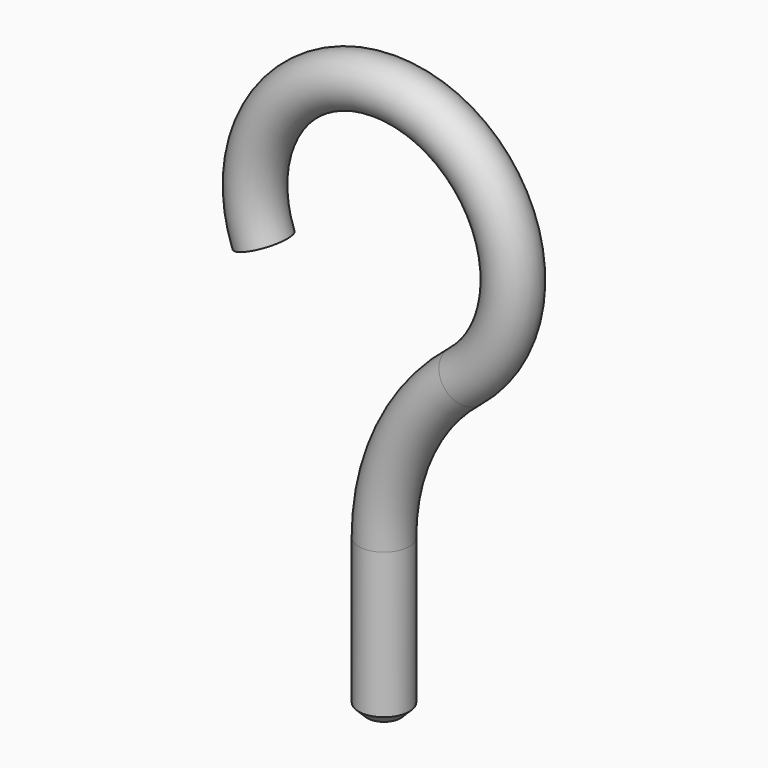
from build123d import *

# Parameters (mm, degrees)
F1_R    = 0.5969
F3_SIZE = 0.2032


with BuildPart() as f2:
    # F2: sweep along a path in F0
    with BuildLine(Plane.XZ) as f2_path:
        Line((0, 0), (0, 3.6372820336))
        ThreePointArc((0, 3.6372820336), (0.5009498802, 5.8369865592), (1.905, 7.6028557626))
        ThreePointArc((1.905, 7.6028557626), (0.7974991737, 12.9240190067), (-2.8458919022, 8.8907774049))
    # F1 (on Top) → F2 (sweep)
    with BuildSketch(Plane.XY):
        Circle(F1_R)
    sweep(path=f2_path.line)

    # F3
    f3_edges = [f2.edges().sort_by_distance(p)[0] for p in [
        (-0.5969, 0, 0),
    ]]
    chamfer(f3_edges, length=F3_SIZE)


solid = f2.part
